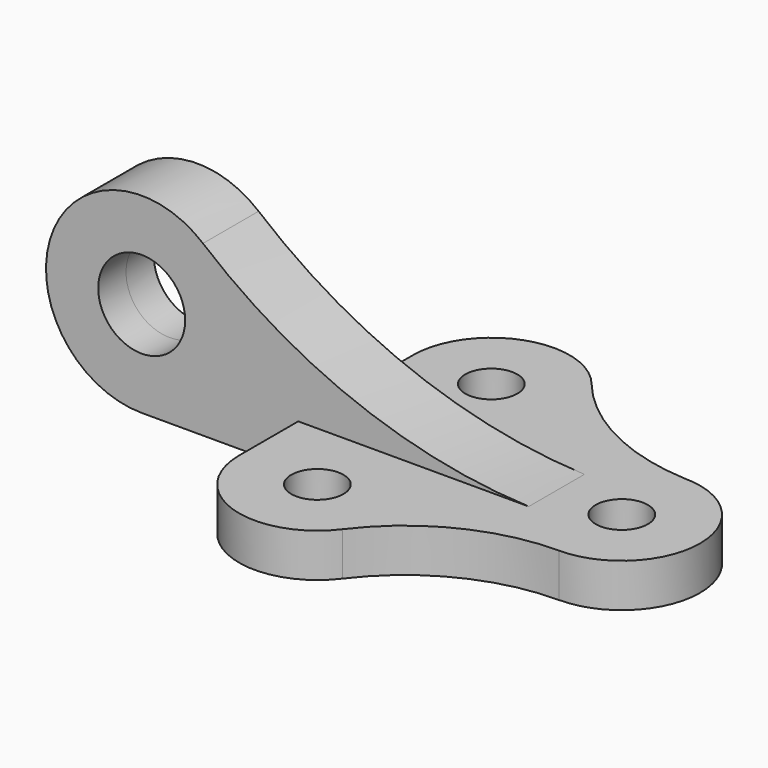
from build123d import *

# Parameters (mm, degrees)
F0_R          = 6
F1_DEPTH      = 10
F2_R          = 10
F3_DEPTH      = 8
F3_DEPTH_BACK = 8


with BuildPart() as f1:
    # F0 (on Top) → F1 (new body)
    with BuildSketch(Plane.XY):
        with BuildLine():
            ThreePointArc((-35.6, -35.8), (-19.901005, -22.69799), (0, -18))
            ThreePointArc((0, -18), (18, 0), (0, 18))
            ThreePointArc((0, 18), (-19.959456, 23.374272), (-36.039548, 36.362472))
            ThreePointArc((-36.039548, 36.362472), (-56.029588, 41.960073), (-68, 25))
            Line((-68, 25), (-68, -25))
            ThreePointArc((-68, -25), (-55.6921, -42.076299), (-35.6, -35.8))
        make_face()
        with Locations((-50, -25)):
            Circle(F0_R, mode=Mode.SUBTRACT)
        Circle(F0_R, mode=Mode.SUBTRACT)
        with Locations((-50, 25)):
            Circle(F0_R, mode=Mode.SUBTRACT)
    extrude(amount=F1_DEPTH)

    # F2 (on Front) → F3 (join, two sides)
    with BuildSketch(Plane.XZ) as f3_sk:
        with BuildLine():
            ThreePointArc((-15, 10), (-54.838013, 18.269727), (-89.909731, 38.895689))
            ThreePointArc((-89.909731, 38.895689), (-124.684598, 29.493158), (-104, 0))
            Line((-104, 0), (-15, 0))
            Line((-15, 0), (-15, 10))
        make_face()
        with Locations((-104, 22)):
            Circle(F2_R, mode=Mode.SUBTRACT)
    extrude(amount=F3_DEPTH)
    extrude(f3_sk.sketch, amount=-F3_DEPTH_BACK)


solid = f1.part
